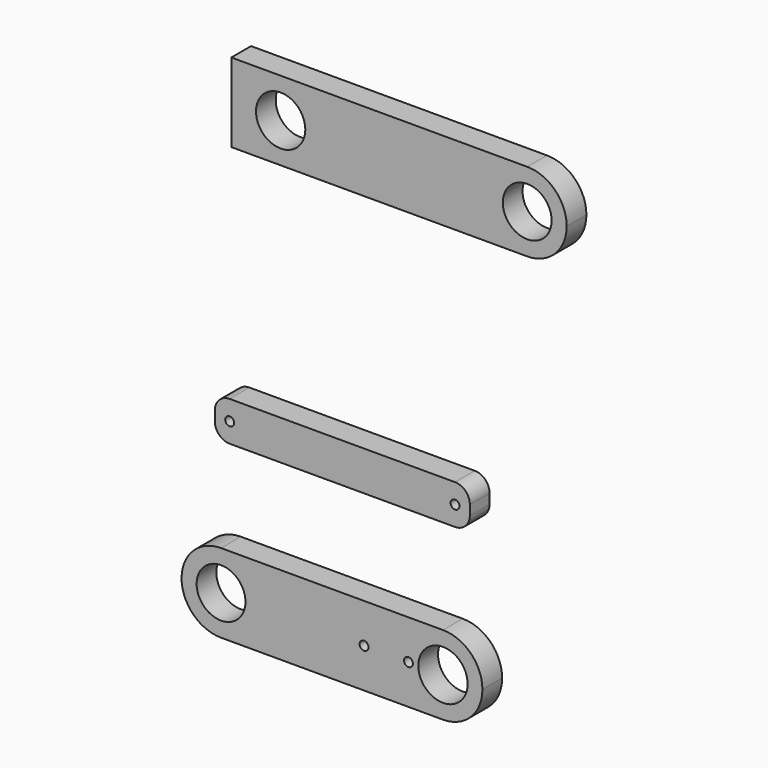
from build123d import *

# Parameters (mm, degrees)
F0_R     = 5
F0_R_2   = 4.95
F0_R_3   = 0.9
F1_DEPTH = 5


with BuildPart() as f1:
    # F0 (on Front) → F1 (new body)
    with BuildSketch(Plane.XZ):
        with BuildLine():
            Line((-22.513284, 126.922728), (37.486716, 126.922728))
            ThreePointArc((37.486716, 126.922728), (43.14357, 129.265874), (45.486716, 134.922728))
            ThreePointArc((45.486716, 134.922728), (43.14357, 140.579582), (37.486716, 142.922728))
            Line((37.486716, 142.922728), (7.486716, 142.922728))
            Line((7.486716, 142.922728), (-22.513284, 142.922728))
            Line((-22.513284, 142.922728), (-22.513284, 126.922728))
        make_face()
        with Locations((-12.513284, 134.922728)):
            Circle(F0_R, mode=Mode.SUBTRACT)
        with Locations((37.486716, 134.922728)):
            Circle(F0_R_2, mode=Mode.SUBTRACT)
        with BuildLine():
            Line((-22.85, 73.865258), (22.85, 73.865258))
            ThreePointArc((22.85, 73.865258), (24.97132, 74.743938), (25.85, 76.865258))
            Line((25.85, 76.865258), (25.85, 78.865258))
            ThreePointArc((25.85, 78.865258), (24.97132, 80.986578), (22.85, 81.865258))
            Line((22.85, 81.865258), (-22.85, 81.865258))
            ThreePointArc((-22.85, 81.865258), (-24.97132, 80.986578), (-25.85, 78.865258))
            Line((-25.85, 78.865258), (-25.85, 76.865258))
            ThreePointArc((-25.85, 76.865258), (-24.97132, 74.743938), (-22.85, 73.865258))
        make_face()
        with Locations((-22.85, 77.865258)):
            Circle(F0_R_3, mode=Mode.SUBTRACT)
        with Locations((22.85, 77.865258)):
            Circle(F0_R_3, mode=Mode.SUBTRACT)
        with BuildLine():
            Line((-24.6, 38.670482), (20.4, 38.670482))
            ThreePointArc((20.4, 38.670482), (26.056854, 41.013627), (28.4, 46.670482))
            ThreePointArc((28.4, 46.670482), (26.056854, 52.327336), (20.4, 54.670482))
            Line((20.4, 54.670482), (-24.6, 54.670482))
            ThreePointArc((-24.6, 54.670482), (-31.822884, 50.10995), (-30.810721, 41.627968))
            ThreePointArc((-30.810721, 41.627968), (-28.039469, 39.447597), (-24.6, 38.670482))
        make_face()
        with Locations((-24.6, 46.670482)):
            Circle(F0_R_2, mode=Mode.SUBTRACT)
        with Locations((4.4, 46.670482)):
            Circle(F0_R_3, mode=Mode.SUBTRACT)
        with Locations((13.4, 46.670482)):
            Circle(F0_R_3, mode=Mode.SUBTRACT)
        with Locations((20.4, 46.670482)):
            Circle(F0_R, mode=Mode.SUBTRACT)
    extrude(amount=F1_DEPTH)


solid = f1.part
